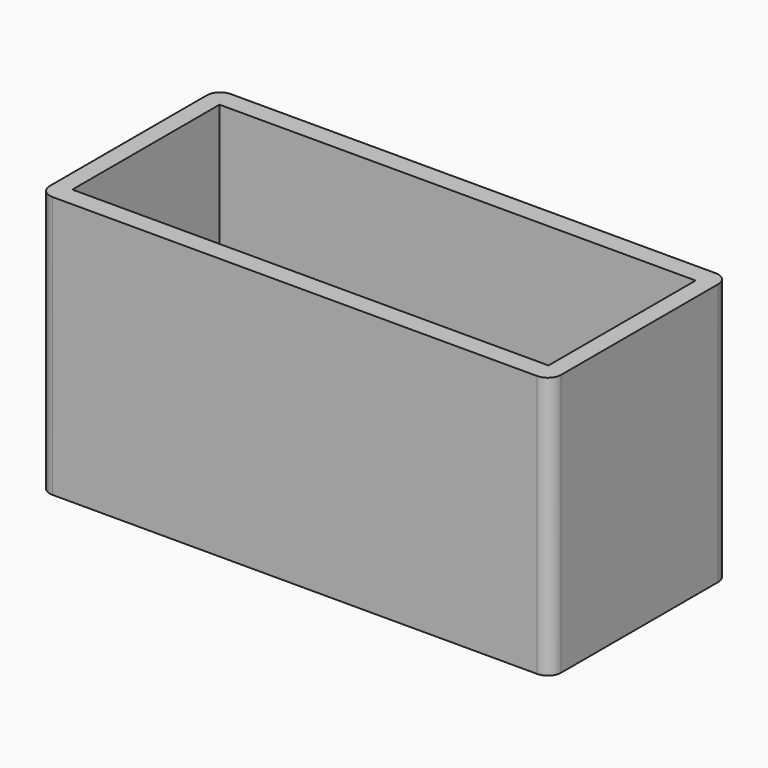
from build123d import *

# Parameters (mm, degrees)
F0_W     = 195
F0_H     = 85
F1_DEPTH = 100
F2_W     = 181.545526
F2_H     = 70.127204
F3_DEPTH = 93
F4_R     = 5.08


with BuildPart() as f1:
    # F0 (on Top) → F1 (new body)
    with BuildSketch(Plane.XY):
        Rectangle(F0_W, F0_H)
        Rectangle(F0_W, F0_H)
    extrude(amount=F1_DEPTH)

    # F2 (on face) → F3 (cut)
    with BuildSketch(Plane.XY.offset(100)):
        Rectangle(F2_W, F2_H)
        Rectangle(F2_W, F2_H)
    extrude(amount=-F3_DEPTH, mode=Mode.SUBTRACT)

    # F4
    f4_edges = [f1.edges().sort_by_distance(p)[0] for p in [
        (97.5, -42.5, 50),
        (97.5, 42.5, 50),
        (-97.5, -42.5, 50),
        (-97.5, 42.5, 50),
    ]]
    fillet(f4_edges, radius=F4_R)


solid = f1.part
